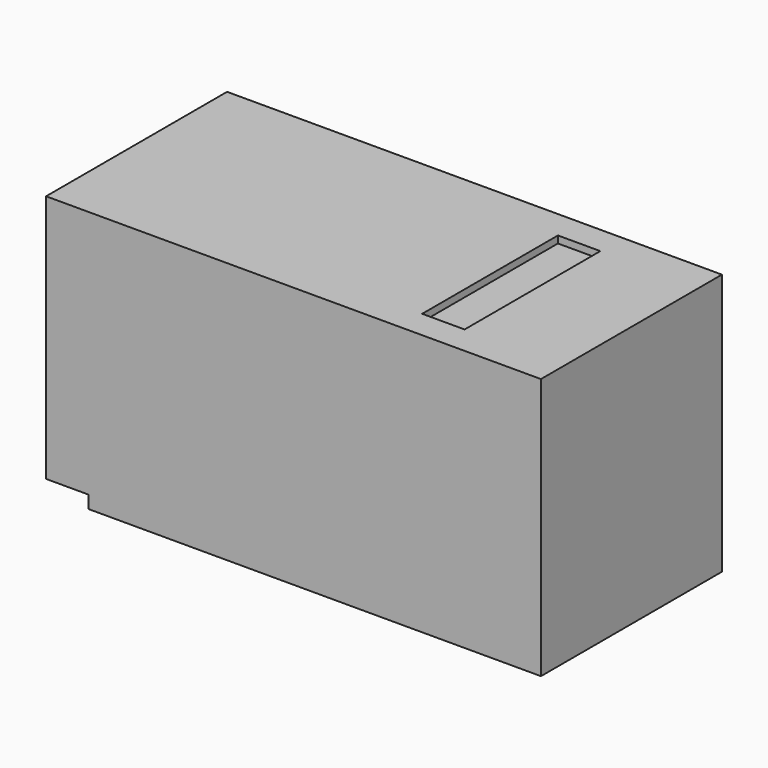
from build123d import *

# Parameters (mm, degrees)
BOX005014_W     = 3
BOX005014_H     = 12
BOX005014_DEPTH = 2
BOX005012_W     = 3
BOX005012_H     = 2.7
BOX005012_DEPTH = 2.7
BOX005011_W     = 3
BOX005011_H     = 2.7
BOX005011_DEPTH = 2.7
BOX005009_W     = 35
BOX005009_H     = 16
BOX005009_DEPTH = 18.5


with BuildPart() as krychle013:
    # Box005014 → Box005014 (new body)
    with BuildSketch(Plane(origin=(20, 77, -26), x_dir=(1, 0, 0), z_dir=(0, 0, 1))):
        with Locations((1.5, 6)):
            Rectangle(BOX005014_W, BOX005014_H)
    extrude(amount=BOX005014_DEPTH)


with BuildPart() as krychle011:
    # Box005012 → Box005012 (new body)
    with BuildSketch(Plane(origin=(-5, 88.4, -45.8), x_dir=(1, 0, 0), z_dir=(0, 0, 1))):
        with Locations((1.5, 1.35)):
            Rectangle(BOX005012_W, BOX005012_H)
    extrude(amount=BOX005012_DEPTH)


with BuildPart() as krychle010:
    # Box005011 → Box005011 (new body)
    with BuildSketch(Plane(origin=(-5, 75, -45.8), x_dir=(1, 0, 0), z_dir=(0, 0, 1))):
        with Locations((1.5, 1.35)):
            Rectangle(BOX005011_W, BOX005011_H)
    extrude(amount=BOX005011_DEPTH)


with BuildPart() as obj1:
    # Box005009 → Box005009 (new body)
    with BuildSketch(Plane(origin=(-5, 75, -44), x_dir=(1, 0, 0), z_dir=(0, 0, 1))):
        with Locations((17.5, 8)):
            Rectangle(BOX005009_W, BOX005009_H)
    extrude(amount=BOX005009_DEPTH)

    # Cut: cut Krychle010
    add(krychle010.part, mode=Mode.SUBTRACT)

    # Cut001: cut Krychle011
    add(krychle011.part, mode=Mode.SUBTRACT)

    # Cut002: cut Krychle013
    add(krychle013.part, mode=Mode.SUBTRACT)


solid = obj1.part
